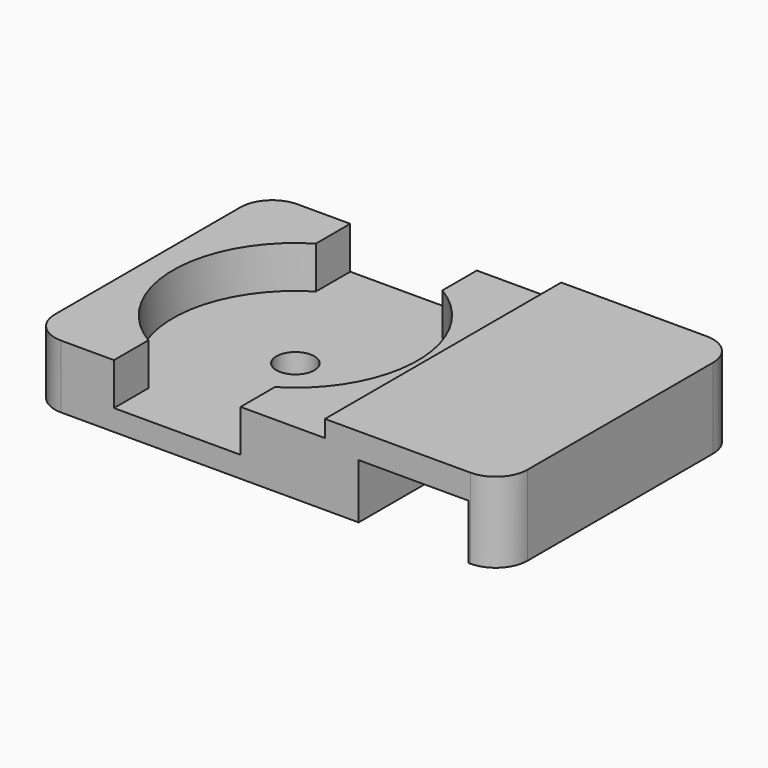
from build123d import *

# Parameters (mm, degrees)
PAD_DEPTH       = 7
SKETCH006_W     = 14
SKETCH006_H     = 14
PAD002_DEPTH    = 3
POCKET004_DEPTH = 2
SKETCH008_R     = 0.9
POCKET005_DEPTH = 1.001
FILLET_R        = 1.5


with BuildPart() as clamp_unit:
    # Sketch → Pad (new body, symmetric)
    with BuildSketch(Plane.XZ):
        Polygon((-2.6, 3.8), (4.2, 3.8), (4.2, 0), (2.6, 0), (2.6, 2.6), (-2.6, 2.6), (-2.6, 0), (-4.2, 0), (-4.2, 3.8), align=None)
    extrude(amount=PAD_DEPTH, both=True)


with BuildPart() as wire_holder_single:
    # Sketch006 → Pad002 (new body)
    with BuildSketch(Plane.XY):
        Rectangle(SKETCH006_W, SKETCH006_H)
    extrude(amount=PAD002_DEPTH)

    # Sketch007 → Pocket004 (cut)
    with BuildSketch(Plane.XY.offset(3)):
        with BuildLine():
            Line((-3, 7), (-3, 4.963869))
            ThreePointArc((-3, 4.963869), (-5.8, 0), (-3, -4.963869))
            Line((-3, -7), (-3, -4.963869))
            Line((3, -7), (-3, -7))
            Line((3, -4.963869), (3, -7))
            ThreePointArc((3, -4.963869), (5.8, 0), (3, 4.963869))
            Line((3, 7), (3, 4.963869))
            Line((-3, 7), (3, 7))
        make_face()
    extrude(amount=-POCKET004_DEPTH, mode=Mode.SUBTRACT)

    # Sketch008 → Pocket005 (cut, through all)
    with BuildSketch(Plane.XY.offset(1)):
        Circle(SKETCH008_R)
    extrude(amount=-POCKET005_DEPTH, mode=Mode.SUBTRACT)


with BuildPart() as wire_holder_single_1:
    # Clone placement: moved
    add(wire_holder_single.part.moved(Location((-11.2, 0, 0))))

    # Fusion: union clamp-unit
    add(clamp_unit.part)

    # Fillet
    fillet_edges = [wire_holder_single_1.edges().sort_by_distance(p)[0] for p in [
        (-18.2, -7, 1.5),
        (-18.2, 7, 1.5),
        (4.2, 7, 1.9),
        (4.2, -7, 1.9),
    ]]
    fillet(fillet_edges, radius=FILLET_R)


solid = wire_holder_single_1.part
